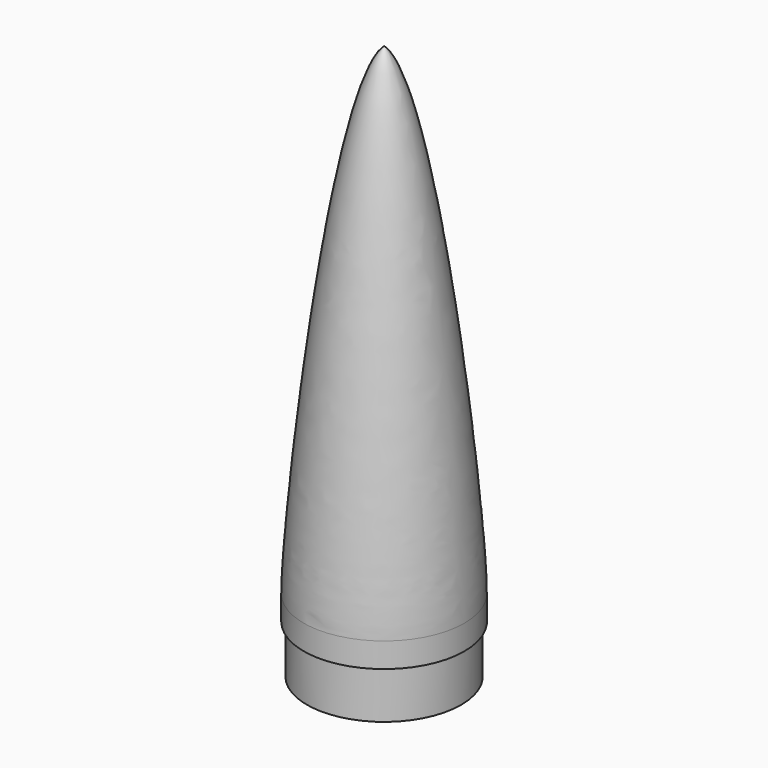
from build123d import *


with BuildPart() as f1:
    # F0 (on Front) → F1 (revolve)
    with BuildSketch(Plane.XZ):
        with BuildLine():
            Line((0, 150), (0, -22.689918))
            Line((0, -22.689918), (24, -22.689918))
            Line((24, -22.689918), (24, -7.689918))
            Line((24, -7.689918), (25, -7.689918))
            Line((25, -7.689918), (25, 0))
            add(Edge.make_bspline(
                [(25, 0), (25, 20.811048), (13.161126, 139.509222), (0, 150)],
                knots=[0, 0, 0, 0, 152.069063, 152.069063, 152.069063, 152.069063], degree=3))
        make_face()
    revolve(axis=Axis((0, 0, 93.709173), (0, 0, 1)))


solid = f1.part
